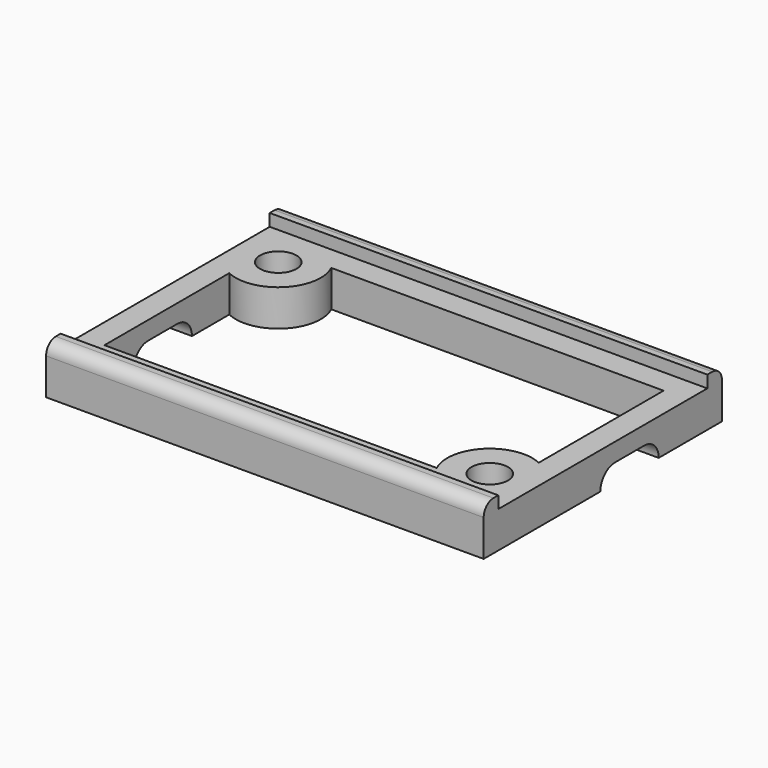
from build123d import *

# Parameters (mm, degrees)
F0_W     = 36
F0_H     = 1.5
F0_H_2   = 21.5
F1_DEPTH = 3
F2_DEPTH = 4
F3_D     = 3
F3_DEPTH = 8
F3_TIP   = 0.9012909285
F4_R     = 1
F6_DEPTH = 25
F8_DEPTH = 25


with BuildPart() as f1:
    # F0 (on Top) → F1 (new body)
    with BuildSketch(Plane.XY):
        with Locations((-1.819640398, 8.1819643453)):
            Rectangle(F0_W, F0_H)
        with Locations((-1.819640398, -3.3180356547)):
            Rectangle(F0_W, F0_H_2)
        with BuildLine():
            ThreePointArc((-17.819640398, 0.7696866851), (-13.8447666639, 1.4570906111), (-13.1573627379, 5.4319643453))
            Line((-13.1573627379, 5.4319643453), (14.180359602, 5.4319643453))
            Line((14.180359602, 5.4319643453), (14.180359602, -7.4057579946))
            ThreePointArc((14.180359602, -7.4057579946), (10.2054858678, -8.0931619206), (9.5180819418, -12.0680356547))
            Line((9.5180819418, -12.0680356547), (-17.819640398, -12.0680356547))
            Line((-17.819640398, -12.0680356547), (-17.819640398, 0.7696866851))
        make_face(mode=Mode.SUBTRACT)
        with Locations((-1.819640398, -14.8180356547)):
            Rectangle(F0_W, F0_H)
    extrude(amount=F1_DEPTH)

    # F0 (on Top) → F2 (join)
    with BuildSketch(Plane.XY):
        with Locations((-1.819640398, 8.1819643453)):
            Rectangle(F0_W, F0_H)
        with Locations((-1.819640398, -14.8180356547)):
            Rectangle(F0_W, F0_H)
    extrude(amount=F2_DEPTH)

    # F3
    with Locations(Plane(origin=(0, 0, 0), x_dir=(1, 0, 0), z_dir=(0, 0, -1))):
        with Locations((12.680359602, 10.5680356547), (-16.319640398, -3.9319643453)):
            Hole(F3_D / 2, depth=F3_DEPTH)
            with Locations((0, 0, -(F3_DEPTH + F3_TIP / 2))):  # 118° drill point
                Cone(0, F3_D / 2, F3_TIP, mode=Mode.SUBTRACT)

    # F4
    f4_edges = [f1.edges().sort_by_distance(p)[0] for p in [
        (-1.81964, 8.931964, 4),
        (-1.81964, -15.568036, 4),
    ]]
    fillet(f4_edges, radius=F4_R)

    # F5 (on face) → F6 (cut)
    with BuildSketch(Plane(origin=(-19.819640398, 0, 0), x_dir=(0, -1, 0), z_dir=(-1, 0, 0))):
        with BuildLine():
            Line((7.5680356547, 1.5), (4.5680356547, 1.5))
            ThreePointArc((4.5680356547, 1.5), (3.1191469153, -0.3882285677), (5.3180356547, -1.2990381057))
            ThreePointArc((5.3180356547, -1.2990381057), (6.0680356547, -1.5), (6.8180356547, -1.2990381057))
            ThreePointArc((6.8180356547, -1.2990381057), (9.0169243942, -0.3882285677), (7.5680356547, 1.5))
        make_face()
    extrude(amount=-F6_DEPTH, mode=Mode.SUBTRACT)

    # F7 (on face) → F8 (cut)
    with BuildSketch(Plane.YZ.offset(16.180359602)):
        with BuildLine():
            ThreePointArc((-0.5680356547, 0), (0.9319643453, -1.5), (2.4319643453, 0))
            ThreePointArc((2.4319643453, 0), (1.9926245171, 1.0606601718), (0.9319643453, 1.5))
            ThreePointArc((0.9319643453, 1.5), (-0.1286958265, 1.0606601718), (-0.5680356547, 0))
        make_face()
        with BuildLine():
            ThreePointArc((-0.5680356547, 0), (-0.1286958265, 1.0606601718), (0.9319643453, 1.5))
            Line((0.9319643453, 1.5), (-2.0680356547, 1.5))
            ThreePointArc((-2.0680356547, 1.5), (-1.0073754829, 1.0606601718), (-0.5680356547, 0))
        make_face()
        with BuildLine():
            ThreePointArc((-2.0680356547, 1.5), (-3.1286958265, -1.0606601718), (-0.5680356547, 0))
            ThreePointArc((-0.5680356547, 0), (-1.0073754829, 1.0606601718), (-2.0680356547, 1.5))
        make_face()
    extrude(amount=-F8_DEPTH, mode=Mode.SUBTRACT)


solid = f1.part
